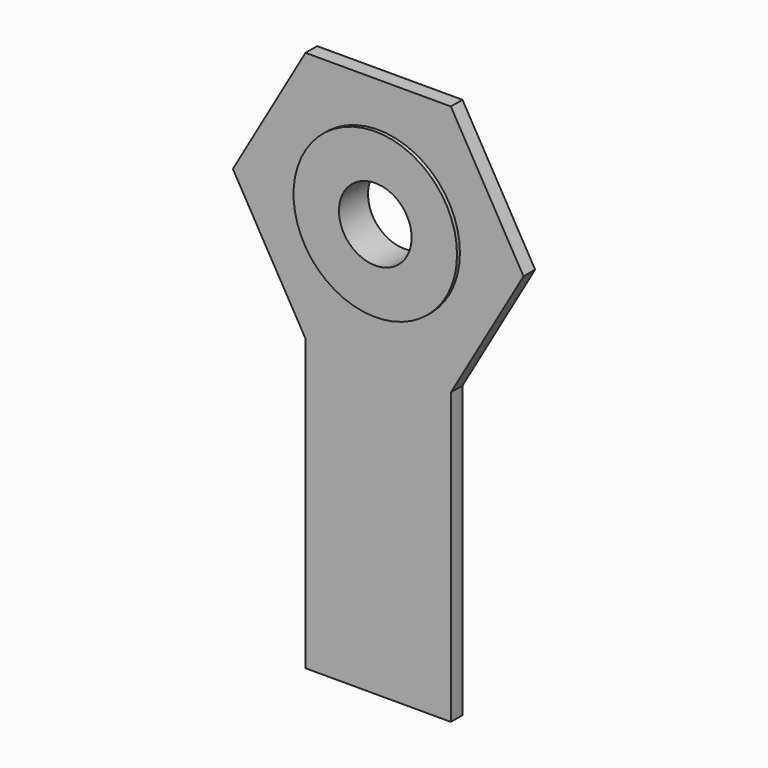
from build123d import *

# Parameters (mm, degrees)
F0_R     = 14.2875
F0_W     = 25.4
F0_H     = 50.699268
F1_DEPTH = 2.54
F0_R_2   = 6.35
F2_DEPTH = 3.175


with BuildPart() as f1:
    # F0 (on Front) → F1 (new body)
    with BuildSketch(Plane.XZ):
        Polygon((12.7, 21.997045), (-12.7, 21.997045), (-25.4, 0), (-12.7, -21.997045), (12.7, -21.997045), (25.4, 0), align=None)
        Circle(F0_R, mode=Mode.SUBTRACT)
        with Locations((0, -47.346679)):
            Rectangle(F0_W, F0_H)
    extrude(amount=F1_DEPTH)

    # F0 (on Front) → F2 (join, symmetric)
    with BuildSketch(Plane.XZ):
        Circle(F0_R)
        Circle(F0_R_2, mode=Mode.SUBTRACT)
    extrude(amount=F2_DEPTH, both=True)


solid = f1.part
